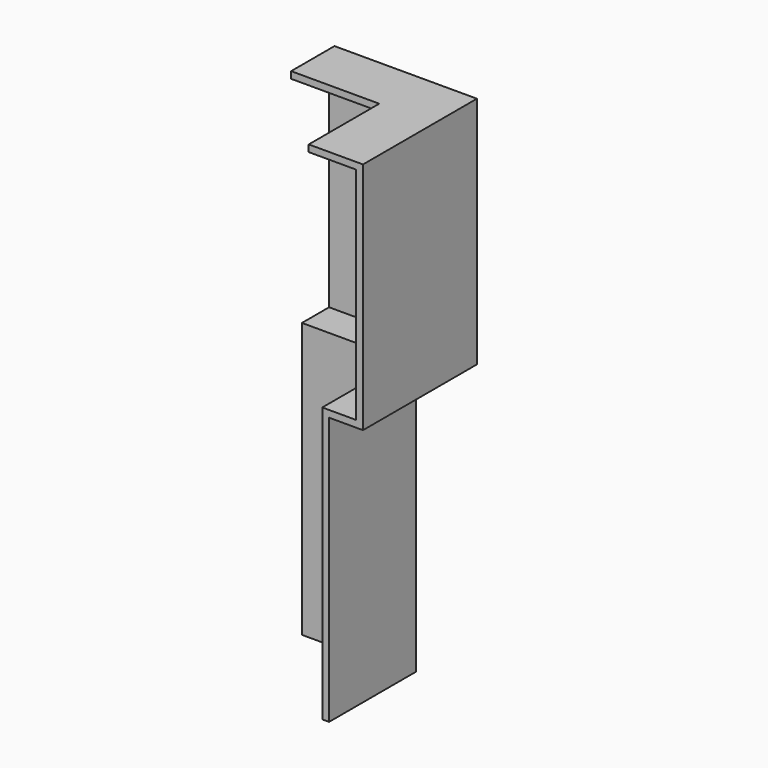
from build123d import *

# Parameters (mm, degrees)
F1_DEPTH = 66.675
F3_DEPTH = 234.951


with BuildPart() as f1:
    # F0 (on Right) → F1 (new body)
    with BuildSketch(Plane.YZ):
        Polygon((0, 128.5875), (0, 0), (3.175, 0), (3.175, 125.4125), (19.05, 125.4125), (19.05, 234.95), (-6.35, 234.95), (-6.35, 231.775), (15.875, 231.775), (15.875, 128.5875), align=None)
    extrude(amount=F1_DEPTH)

    # F2 (on face) → F3 (cut, through all)
    with BuildSketch(Plane.XY.offset(234.95)):
        Polygon((66.675, -6.35), (66.675, 19.05), (41.275, -6.35), align=None)
    extrude(amount=-F3_DEPTH, mode=Mode.SUBTRACT)

    # F4: F1 across face


with BuildPart() as f1_1:
    add(f1.part)
    add(f1.part.mirror(Plane(origin=(56.208576, 8.583576, 127.461483), x_dir=(0.707107, 0.707107, 0), z_dir=(0.707107, -0.707107, 0))))


solid = f1_1.part
